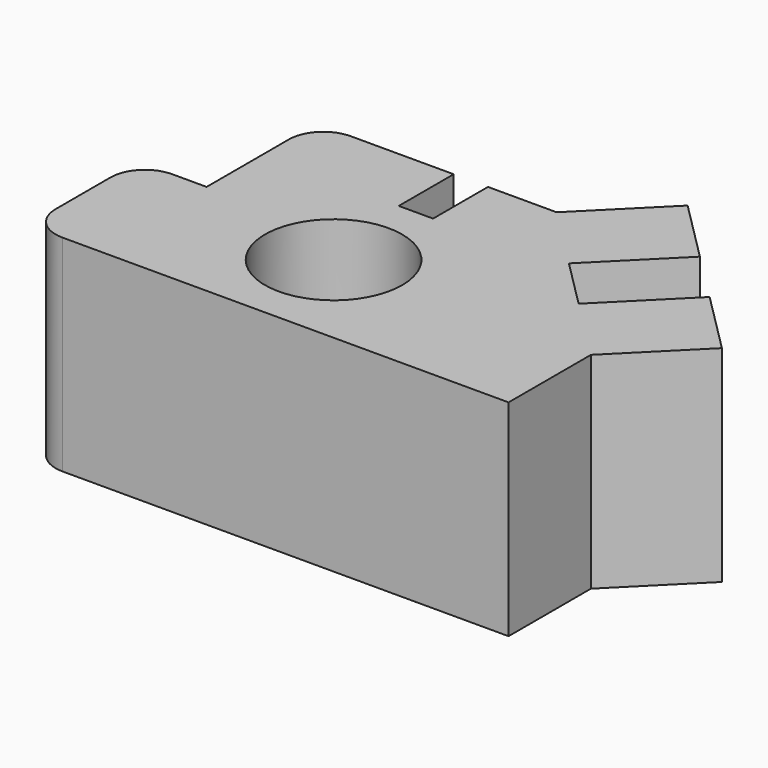
from build123d import *

# Parameters (mm, degrees)
F0_R     = 10
F1_DEPTH = 30


with BuildPart() as f1:
    # F0 (on Top) → F1 (new body)
    with BuildSketch(Plane.XY):
        with BuildLine():
            ThreePointArc((-24.06338, -22.053742), (-22.598914, -25.589276), (-19.06338, -27.053742))
            Line((-19.06338, -27.053742), (45.93662, -27.053742))
            Line((45.93662, -27.053742), (45.93662, -12.053742))
            Line((45.93662, -12.053742), (56.543221, -1.44714))
            Line((56.543221, -1.44714), (47.578755, 7.517326))
            Line((47.578755, 7.517326), (36.972154, -3.089276))
            Line((36.972154, -3.089276), (29.901086, 3.981792))
            Line((29.901086, 3.981792), (40.507688, 14.588394))
            Line((40.507688, 14.588394), (31.543221, 23.55286))
            Line((31.543221, 23.55286), (20.93662, 12.946258))
            Line((20.93662, 12.946258), (10.93662, 12.946258))
            Line((10.93662, 12.946258), (10.93662, 2.946258))
            Line((10.93662, 2.946258), (5.93662, 2.946258))
            Line((5.93662, 2.946258), (5.93662, 12.946258))
            Line((5.93662, 12.946258), (-9.06338, 12.946258))
            ThreePointArc((-9.06338, 12.946258), (-12.598914, 11.481792), (-14.06338, 7.946258))
            Line((-14.06338, 7.946258), (-14.06338, -7.053742))
            Line((-14.06338, -7.053742), (-19.06338, -7.053742))
            ThreePointArc((-19.06338, -7.053742), (-22.598914, -8.518208), (-24.06338, -12.053742))
            Line((-24.06338, -12.053742), (-24.06338, -22.053742))
        make_face()
        with Locations((8.43662, -12.053742)):
            Circle(F0_R, mode=Mode.SUBTRACT)
    extrude(amount=F1_DEPTH)


solid = f1.part
